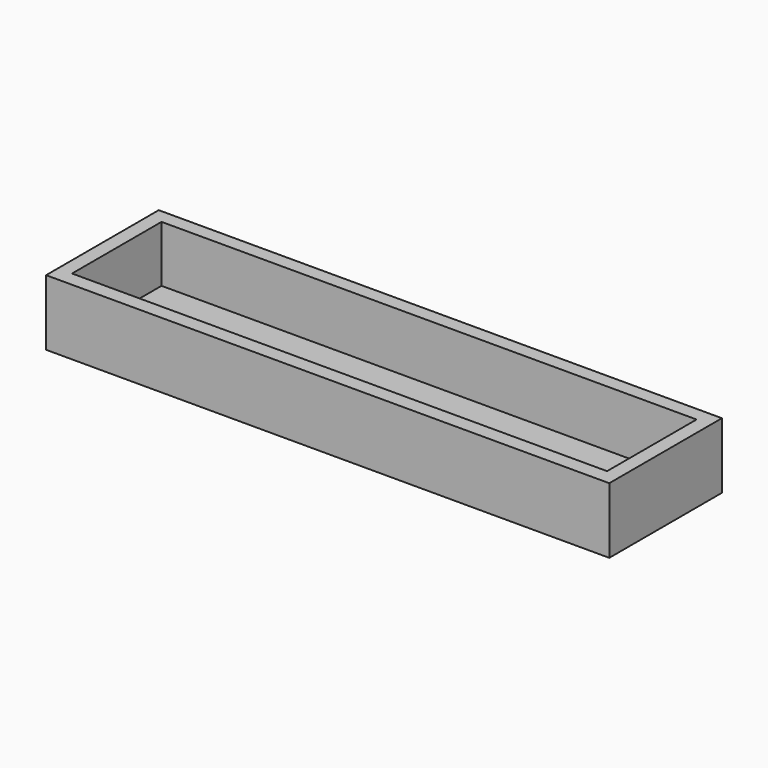
from build123d import *

# Parameters (mm, degrees)
F0_W     = 3.81
F0_H     = 3.81
F0_H_2   = 30.2708674201
F0_H_3   = 4.0191325799
F1_DEPTH = 17.78
F2_W     = 152.4
F2_H     = 38.1
F3_DEPTH = 2.54


with BuildPart() as f1:
    # F0 (on Top) → F1 (new body)
    with BuildSketch(Plane.XY):
        Polygon((-72.39, 15.24), (72.39, 15.24), (72.39, 19.05), (-68.58, 19.05), (-72.39, 19.05), align=None)
        with Locations((-74.295, 17.145)):
            Rectangle(F0_W, F0_H)
        with Locations((-74.295, 0.1045662899)):
            Rectangle(F0_W, F0_H_2)
        with Locations((-74.295, -17.0404337101)):
            Rectangle(F0_W, F0_H_3)
        Polygon((-71.3768037915, -19.05), (72.39, -19.05), (72.39, -15.0308674201), (-72.39, -15.0308674201), (-72.39, -19.05), align=None)
        with Locations((74.295, 0.1045662899)):
            Rectangle(F0_W, F0_H_2)
        Polygon((72.39, -19.05), (76.2, -19.05), (76.2, -18.8408674201), (76.2, -15.0308674201), (72.39, -15.0308674201), align=None)
        with Locations((74.295, 17.145)):
            Rectangle(F0_W, F0_H)
    extrude(amount=F1_DEPTH)

    # F2 (on Top) → F3 (join)
    with BuildSketch(Plane.XY):
        Rectangle(F2_W, F2_H)
    extrude(amount=F3_DEPTH)


solid = f1.part
